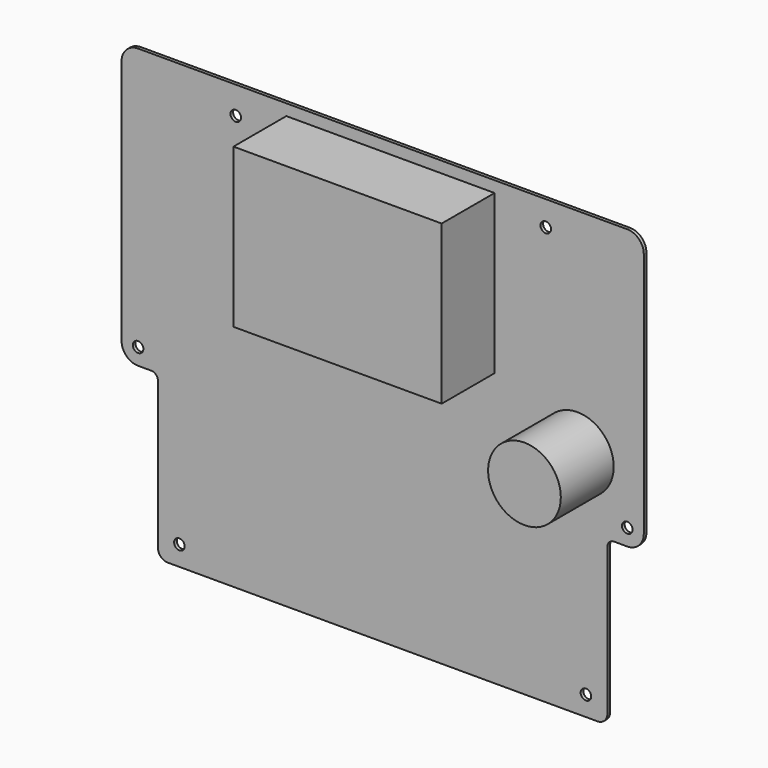
from build123d import *

# Parameters (mm, degrees)
F0_R     = 1.6
F0_R_2   = 11
F0_W     = 63
F0_H     = 48
F1_DEPTH = 1
F2_DEPTH = 20


with BuildPart() as f1:
    # F0 (on Front) → F1 (new body)
    with BuildSketch(Plane.XZ):
        with BuildLine():
            Line((-79, 42.5), (-79, -32))
            ThreePointArc((-79, -32), (-77.535534, -35.535534), (-74, -37))
            Line((-74, -37), (-70, -37))
            ThreePointArc((-70, -37), (-68.585786, -37.585786), (-68, -39))
            Line((-68, -39), (-68, -83.5))
            ThreePointArc((-68, -83.5), (-67.12132, -85.62132), (-65, -86.5))
            Line((-65, -86.5), (65, -86.5))
            ThreePointArc((65, -86.5), (67.12132, -85.62132), (68, -83.5))
            Line((68, -83.5), (68, -39))
            ThreePointArc((68, -39), (68.585786, -37.585786), (70, -37))
            Line((70, -37), (74, -37))
            ThreePointArc((74, -37), (77.535534, -35.535534), (79, -32))
            Line((79, -32), (79, 42.5))
            ThreePointArc((79, 42.5), (77.535534, 46.035534), (74, 47.5))
            Line((74, 47.5), (-74, 47.5))
            ThreePointArc((-74, 47.5), (-77.535534, 46.035534), (-79, 42.5))
        make_face()
        with Locations((-61.5, -80.5)):
            Circle(F0_R, mode=Mode.SUBTRACT)
        with Locations((-74, -32)):
            Circle(F0_R, mode=Mode.SUBTRACT)
        with Locations((61.5, -80.5)):
            Circle(F0_R, mode=Mode.SUBTRACT)
        with Locations((74, -32)):
            Circle(F0_R, mode=Mode.SUBTRACT)
        with Locations((-44.45, 39.2)):
            Circle(F0_R, mode=Mode.SUBTRACT)
        with Locations((58.9, -17.1)):
            Circle(F0_R_2, mode=Mode.SUBTRACT)
        with Locations((2.35, 20.1)):
            Rectangle(F0_W, F0_H, mode=Mode.SUBTRACT)
        with Locations((49.35, 40)):
            Circle(F0_R, mode=Mode.SUBTRACT)
        with Locations((2.35, 20.1)):
            Rectangle(F0_W, F0_H)
        with Locations((58.9, -17.1)):
            Circle(F0_R_2)
    extrude(amount=-F1_DEPTH)

    # F0 (on Front) → F2 (join)
    with BuildSketch(Plane.XZ):
        with Locations((2.35, 20.1)):
            Rectangle(F0_W, F0_H)
        with Locations((58.9, -17.1)):
            Circle(F0_R_2)
    extrude(amount=F2_DEPTH)


solid = f1.part
